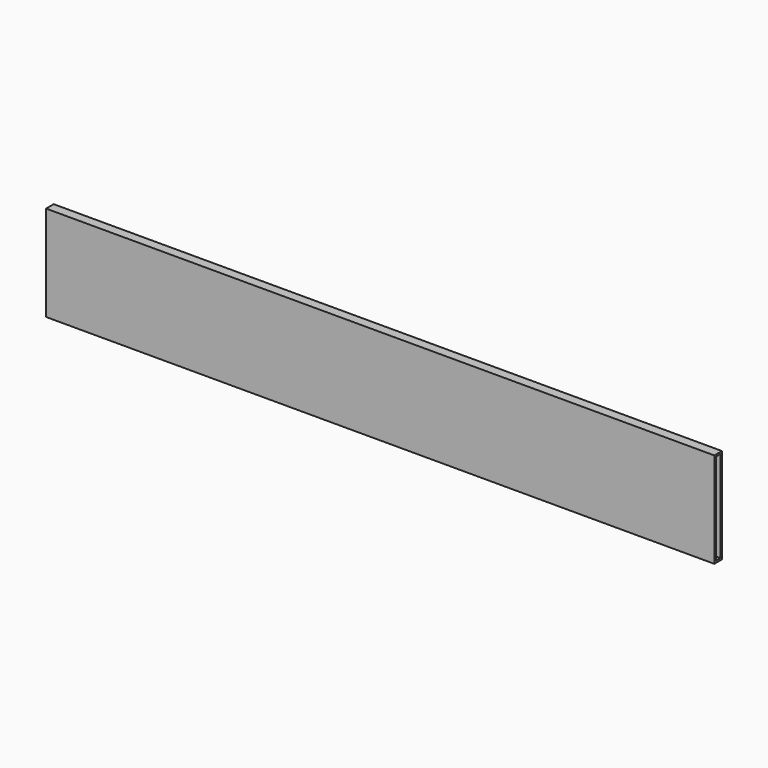
from build123d import *

# Parameters (mm, degrees)
SKETCH_W   = 10
SKETCH_H   = 100
SKETCH_W_2 = 6
SKETCH_H_2 = 96
PAD_DEPTH  = 700


with BuildPart() as part:
    # Sketch → Pad (new body)
    with BuildSketch(Plane.YZ):
        with Locations((5, -50)):
            Rectangle(SKETCH_W, SKETCH_H)
        with Locations((5, -50)):
            Rectangle(SKETCH_W_2, SKETCH_H_2, mode=Mode.SUBTRACT)
    extrude(amount=PAD_DEPTH)


solid = part.part
